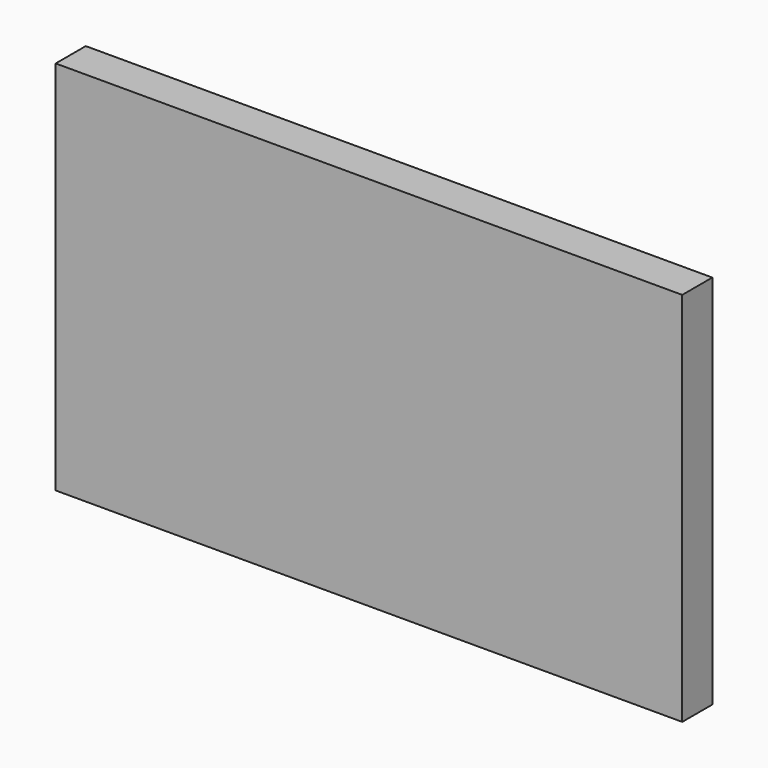
from build123d import *

# Parameters (mm, degrees)
F0_W     = 250
F0_H     = 150
F2_DEPTH = 15
F1_R     = 20.5
F3_DEPTH = 10
F4_DEPTH = 10
F5_DEPTH = 10
F6_DEPTH = 10
F7_DEPTH = 10
F8_DEPTH = 10


with BuildPart() as f2:
    # F0 (on Front) → F2 (new body)
    with BuildSketch(Plane.XZ):
        with Locations((-0.132803, 4.857429)):
            Rectangle(F0_W, F0_H)
    extrude(amount=F2_DEPTH)

    # F1 (on face) → F3 (cut)
    with BuildSketch(Plane.XZ):
        with Locations((57.814665, 52.574778)):
            Circle(F1_R)
    extrude(amount=F3_DEPTH, mode=Mode.SUBTRACT)

    # F1 (on face) → F4 (cut)
    with BuildSketch(Plane.XZ):
        with Locations((102.183415, 19.949049)):
            Circle(F1_R)
    extrude(amount=F4_DEPTH, mode=Mode.SUBTRACT)

    # F1 (on face) → F5 (cut)
    with BuildSketch(Plane.XZ):
        with Locations((102.183415, 19.949049)):
            Circle(F1_R)
    extrude(amount=-F5_DEPTH, mode=Mode.SUBTRACT)

    # F1 (on face) → F6 (cut)
    with BuildSketch(Plane.XZ):
        with Locations((88.780629, -33.229924)):
            Circle(F1_R)
    extrude(amount=F6_DEPTH, mode=Mode.SUBTRACT)

    # F1 (on face) → F7 (cut)
    with BuildSketch(Plane.XZ):
        with Locations((30.196567, -33.758188)):
            Circle(F1_R)
    extrude(amount=F7_DEPTH, mode=Mode.SUBTRACT)

    # F1 (on face) → F8 (cut)
    with BuildSketch(Plane.XZ):
        with Locations((15.077671, 17.431745)):
            Circle(F1_R)
    extrude(amount=F8_DEPTH, mode=Mode.SUBTRACT)


solid = f2.part
